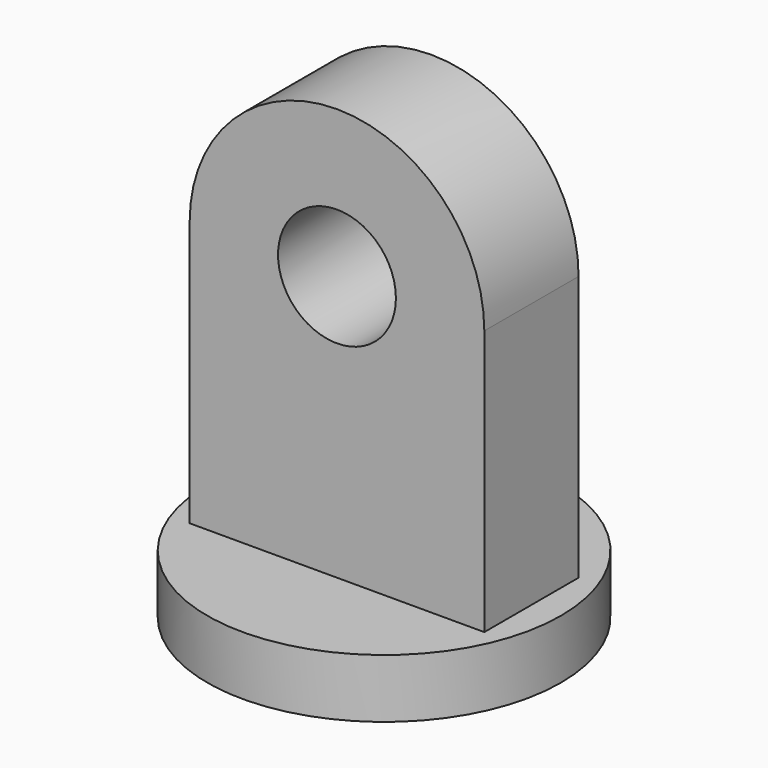
from build123d import *

# Parameters (mm, degrees)
F0_R     = 3
F1_DEPTH = 1
F2_W     = 5
F2_H     = 2
F3_DEPTH = 4.5
F5_DEPTH = 1
F6_R     = 1
F7_DEPTH = 25


with BuildPart() as f1:
    # F0 (on Top) → F1 (new body)
    with BuildSketch(Plane.XY):
        Circle(F0_R)
    extrude(amount=F1_DEPTH)

    # F2 (on face) → F3 (join)
    with BuildSketch(Plane.XY.offset(1)):
        Rectangle(F2_W, F2_H)
    extrude(amount=F3_DEPTH)

    # F4 (on Front) → F5 (join, symmetric)
    with BuildSketch(Plane.XZ):
        with BuildLine():
            Line((0, 5.5), (2.5, 5.5))
            ThreePointArc((2.5, 5.5), (0, 8), (-2.5, 5.5))
            Line((-2.5, 5.5), (0, 5.5))
        make_face()
    extrude(amount=F5_DEPTH, both=True)

    # F6 (on face) → F7 (cut)
    with BuildSketch(Plane.XZ.offset(1)):
        with Locations((0, 5.5)):
            Circle(F6_R)
    extrude(amount=-F7_DEPTH, mode=Mode.SUBTRACT)


solid = f1.part
